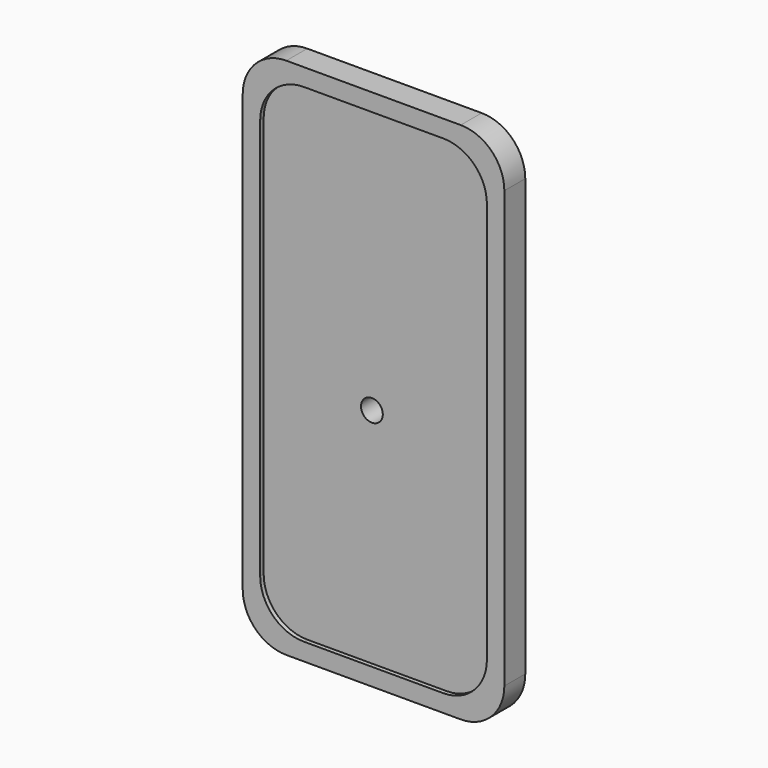
from build123d import *

# Parameters (mm, degrees)
F1_DEPTH  = 7.62
F2_W      = 50.8
F2_H      = 14.000721
F3_DEPTH  = 1.27
F4_R      = 4.215081
F5_DEPTH  = 2.54
F6_W      = 40.64
F6_H      = 97.759279
F7_DEPTH  = 5.08
F8_R      = 5.08
F10_DEPTH = 1.27
F12_D     = 6.35


with BuildPart() as f1:
    # F0 (on Front) → F1 (new body)
    with BuildSketch(Plane.XZ):
        with BuildLine():
            Line((-7.261533, 95.628948), (-58.061533, 95.628948))
            ThreePointArc((-58.061533, 95.628948), (-67.041789, 91.909204), (-70.761533, 82.928948))
            Line((-70.761533, 82.928948), (-70.761533, -44.071052))
            ThreePointArc((-70.761533, -44.071052), (-67.041789, -53.051308), (-58.061533, -56.771052))
            Line((-58.061533, -56.771052), (-7.261533, -56.771052))
            ThreePointArc((-7.261533, -56.771052), (1.718724, -53.051308), (5.438467, -44.071052))
            Line((5.438467, -44.071052), (5.438467, 82.928948))
            ThreePointArc((5.438467, 82.928948), (1.718724, 91.909204), (-7.261533, 95.628948))
        make_face()
    extrude(amount=F1_DEPTH)

    # F2 (on face) → F3 (cut)
    with BuildSketch(Plane(origin=(0, 0, 0), x_dir=(-1, 0, 0), z_dir=(0, 1, 0))):
        with BuildLine():
            Line((7.261533, 68.928227), (7.261533, 82.928948))
            ThreePointArc((7.261533, 82.928948), (0.261172, 75.928588), (7.261533, 68.928227))
        make_face()
        with Locations((32.661533, 75.928587)):
            Rectangle(F2_W, F2_H)
        with BuildLine():
            ThreePointArc((58.061533, 68.928227), (65.061893, 75.928588), (58.061533, 82.928948))
            Line((58.061533, 82.928948), (58.061533, 68.928227))
        make_face()
    extrude(amount=-F3_DEPTH, mode=Mode.SUBTRACT)

    # F4 (on face) → F5 (join)
    with BuildSketch(Plane(origin=(0, -1.27, 0), x_dir=(-1, 0, 0), z_dir=(0, 1, 0))):
        with Locations((9.840052, 75.786227)):
            Circle(F4_R)
    extrude(amount=F5_DEPTH)

    # F6 (on face) → F7 (join)
    with BuildSketch(Plane(origin=(0, 0, 0), x_dir=(-1, 0, 0), z_dir=(0, 1, 0))):
        with Locations((32.661533, 17.508588)):
            Rectangle(F6_W, F6_H)
    extrude(amount=F7_DEPTH)

    # F8
    f8_edges = [f1.edges().sort_by_distance(p)[0] for p in [
        (-12.341533, 2.54, 66.388227),
        (-52.981533, 2.54, 66.388227),
        (-52.981533, 2.54, -31.371052),
        (-12.341533, 2.54, -31.371052),
    ]]
    fillet(f8_edges, radius=F8_R)

    # F9 (on face) → F10 (cut)
    with BuildSketch(Plane.XZ.offset(7.62)):
        with BuildLine():
            Line((-12.341533, 90.548948), (-52.981533, 90.548948))
            ThreePointArc((-52.981533, 90.548948), (-61.961789, 86.829204), (-65.681533, 77.848948))
            Line((-65.681533, 77.848948), (-65.681533, -38.991052))
            ThreePointArc((-65.681533, -38.991052), (-61.961789, -47.971308), (-52.981533, -51.691052))
            Line((-52.981533, -51.691052), (-12.341533, -51.691052))
            ThreePointArc((-12.341533, -51.691052), (-3.361276, -47.971308), (0.358467, -38.991052))
            Line((0.358467, -38.991052), (0.358467, 77.848948))
            ThreePointArc((0.358467, 77.848948), (-3.361276, 86.829204), (-12.341533, 90.548948))
        make_face()
    extrude(amount=-F10_DEPTH, mode=Mode.SUBTRACT)

    # F12 (through all)
    with Locations(Plane.XZ.offset(6.35)):
        with Locations((-34.155931, 13.220405)):
            Hole(F12_D / 2)


solid = f1.part
